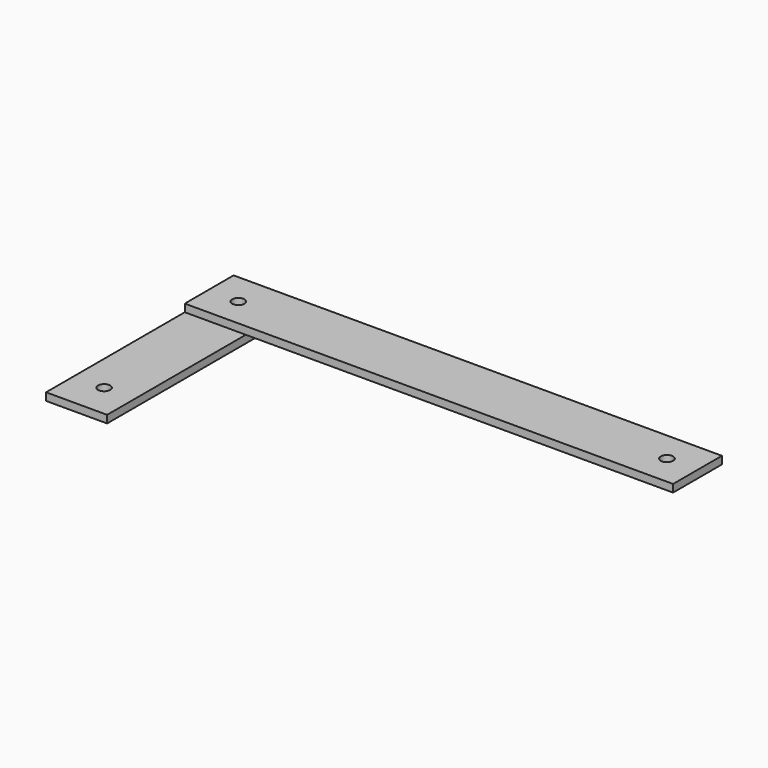
from build123d import *

# Parameters (mm, degrees)
F0_W     = 25.4
F0_H     = 98.425
F0_R     = 2.54
F1_DEPTH = 3.175
F2_W     = 177.8
F2_H     = 25.4
F2_R     = 2.54
F2_W_2   = 25.4
F3_DEPTH = 3.175


with BuildPart() as f1:
    # F0 (on Top) → F1 (new body)
    with BuildSketch(Plane.XY):
        Rectangle(F0_W, F0_H)
        with Locations((0, -34.925)):
            Circle(F0_R, mode=Mode.SUBTRACT)
        with Locations((0, 34.925)):
            Circle(F0_R, mode=Mode.SUBTRACT)
    extrude(amount=F1_DEPTH)


with BuildPart() as f3:
    # F2 (on face) → F3 (new body)
    with BuildSketch(Plane.XY.offset(3.175)):
        with Locations((101.6, 35.616774)):
            Rectangle(F2_W, F2_H)
        with Locations((177.8, 35.616771)):
            Circle(F2_R, mode=Mode.SUBTRACT)
        with Locations((0, 35.616774)):
            Rectangle(F2_W_2, F2_H)
        with Locations((0, 34.925)):
            Circle(F2_R, mode=Mode.SUBTRACT)
    extrude(amount=F3_DEPTH)


solid = Compound([f1.part, f3.part])
